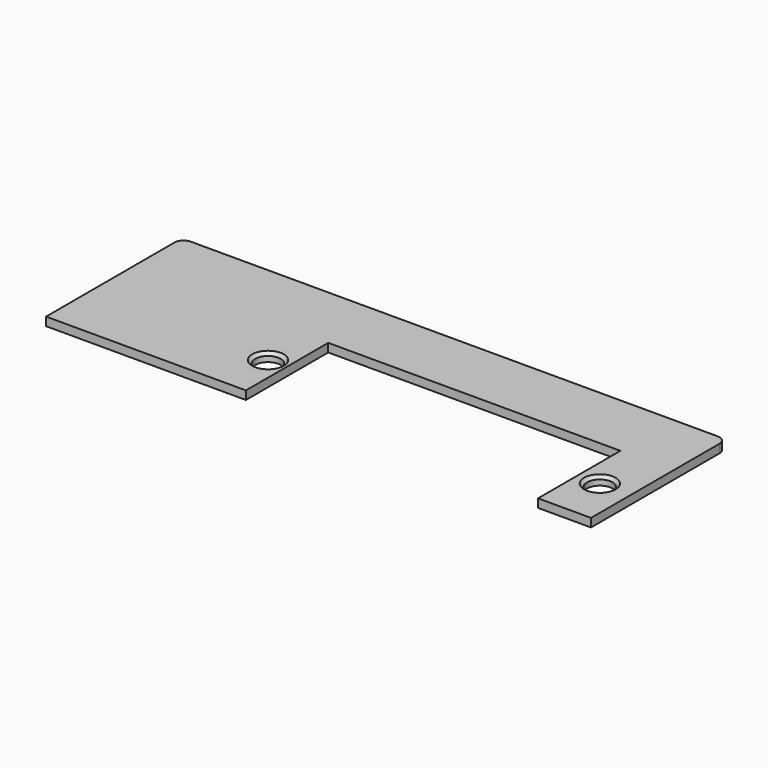
from build123d import *

# Parameters (mm, degrees)
F0_R     = 2.1
F1_DEPTH = 1.4
F2_SIZE  = 0.5


with BuildPart() as f1:
    # F0 (on Top) → F1 (new body)
    with BuildSketch(Plane.XY):
        with BuildLine():
            Line((88.5, 0), (1.5, 0))
            ThreePointArc((1.5, 0), (0.43934, -0.43934), (0, -1.5))
            Line((0, -1.5), (0, -28))
            Line((0, -28), (33, -28))
            Line((33, -28), (33, -11))
            Line((33, -11), (81.25, -11))
            Line((81.25, -11), (81.25, -28))
            Line((81.25, -28), (90, -28))
            Line((90, -28), (90, -1.5))
            ThreePointArc((90, -1.5), (89.56066, -0.43934), (88.5, 0))
        make_face()
        with Locations((29.93, -19.6)):
            Circle(F0_R, mode=Mode.SUBTRACT)
        with Locations((84.9, -19.8)):
            Circle(F0_R, mode=Mode.SUBTRACT)
    extrude(amount=F1_DEPTH)

    # F2
    f2_edges = [f1.edges().sort_by_distance(p)[0] for p in [
        (27.83, -19.6, 1.4),
        (82.8, -19.8, 1.4),
    ]]
    chamfer(f2_edges, length=F2_SIZE)


solid = f1.part
